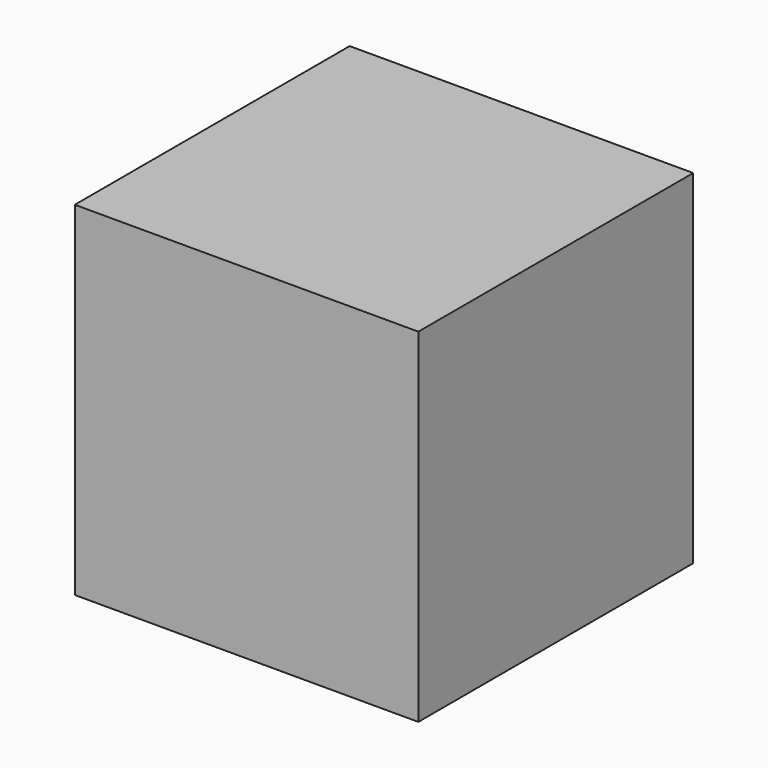
from build123d import *

# Parameters (mm, degrees)
F0_W     = 50
F0_H     = 50
F1_DEPTH = 50
F2_R     = 7.5
F3_DEPTH = 12.5


with BuildPart() as f1:
    # F0 (on Front) → F1 (new body)
    with BuildSketch(Plane.XZ):
        with Locations((-3.8125486942, -1.9083358347)):
            Rectangle(F0_W, F0_H)
    extrude(amount=-F1_DEPTH)

    # F2 (on face) → F3 (cut, symmetric)
    with BuildSketch(Plane(origin=(0, 50, 0), x_dir=(-1, 0, 0), z_dir=(0, 1, 0))):
        Circle(F2_R)
    extrude(amount=F3_DEPTH, both=True, mode=Mode.SUBTRACT)


solid = f1.part
